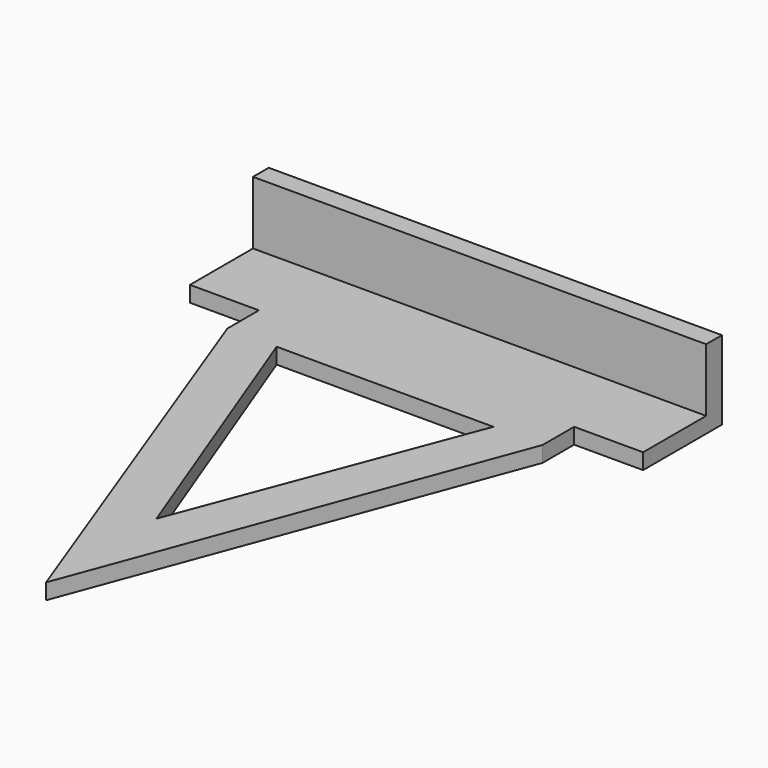
from build123d import *

# Parameters (mm, degrees)
F1_DEPTH = 1.6
F2_W     = 46
F2_H     = 2
F3_DEPTH = 6.4


with BuildPart() as f1:
    # F0 (on Top) → F1 (new body)
    with BuildSketch(Plane.XY):
        Polygon((0, 10), (0, 0), (7, 0), (39, 0), (46, 0), (46, 10), align=None)
        Polygon((39, 0), (7, 0), (7, -4), (23, -47), (39, -4), align=None)
        Polygon((23, -33), (12, -4), (34, -4), align=None, mode=Mode.SUBTRACT)
    extrude(amount=F1_DEPTH)

    # F2 (on face) → F3 (join)
    with BuildSketch(Plane.XY.offset(1.6)):
        with Locations((23, 9)):
            Rectangle(F2_W, F2_H)
    extrude(amount=F3_DEPTH)


solid = f1.part
